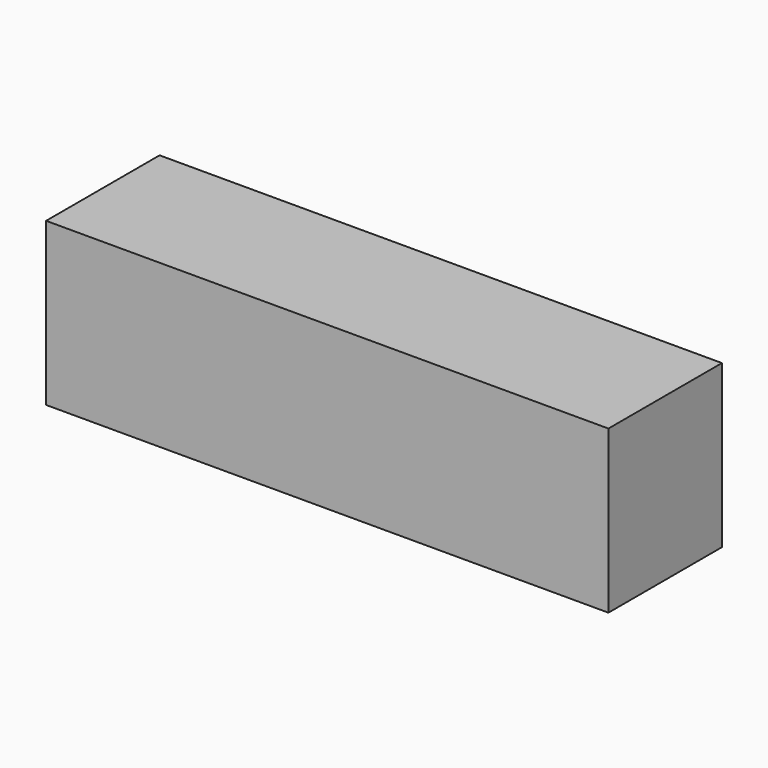
from build123d import *

# Parameters (mm, degrees)
BOX_W        = 111
BOX_H        = 28
BOX_DEPTH    = 42
BOX001_W     = 111
BOX001_H     = 28
BOX001_DEPTH = 10


with BuildPart() as part:
    # Box → Box (join)
    with BuildSketch(Plane.XY):
        with Locations((55.5, 14)):
            Rectangle(BOX_W, BOX_H)
    extrude(amount=BOX_DEPTH)

    # Box001 → Box001 (cut)
    with BuildSketch(Plane.XY):
        with Locations((55.5, 14)):
            Rectangle(BOX001_W, BOX001_H)
    extrude(amount=BOX001_DEPTH, mode=Mode.SUBTRACT)


solid = part.part
